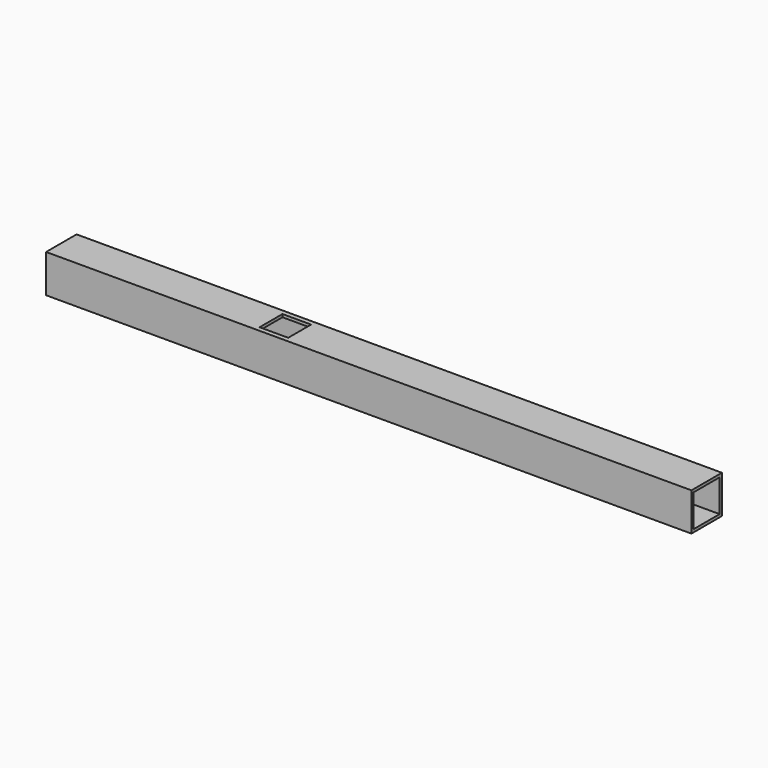
from build123d import *

# Parameters (mm, degrees)
F0_W     = 40
F0_H     = 40
F0_W_2   = 34
F0_H_2   = 34
F1_DEPTH = 338.5
F2_W     = 30
F2_H     = 30
F3_DEPTH = 40.001


with BuildPart() as f1:
    # F0 (on Right) → F1 (new body, symmetric)
    with BuildSketch(Plane.YZ):
        Rectangle(F0_W, F0_H)
        Rectangle(F0_W_2, F0_H_2, mode=Mode.SUBTRACT)
    extrude(amount=F1_DEPTH, both=True)

    # F2 (on face) → F3 (cut, through all)
    with BuildSketch(Plane.XY.offset(20)):
        with Locations((-103.5, 0)):
            Rectangle(F2_W, F2_H)
    extrude(amount=-F3_DEPTH, mode=Mode.SUBTRACT)


solid = f1.part
